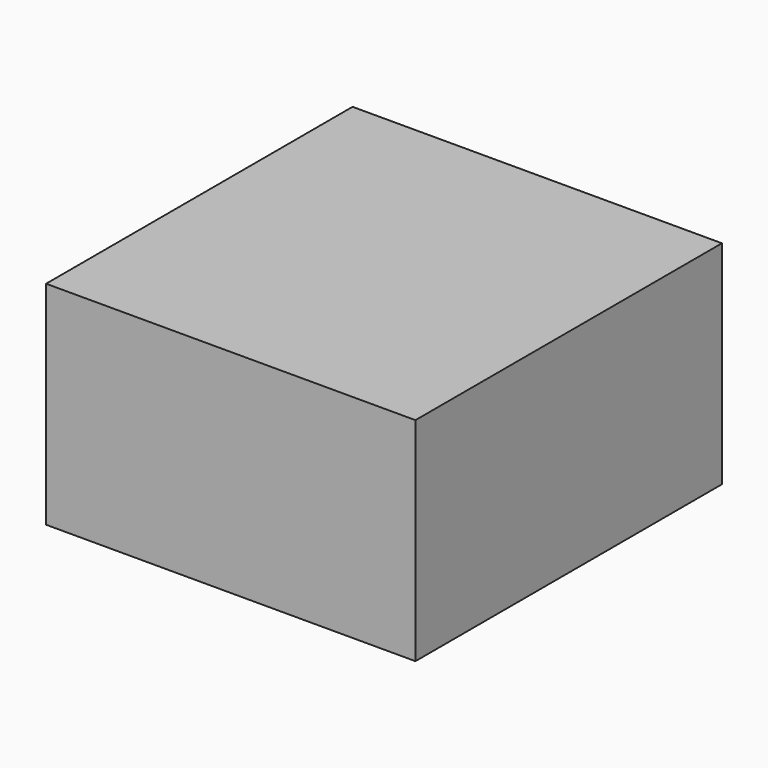
from build123d import *

# Parameters (mm, degrees)
F1_W     = 165.3544977307
F1_H     = 171.5079024434
F1_R     = 60.0545134234
F2_DEPTH = 95
F0_W     = 165.3544977307
F0_H     = 171.5079024434


with BuildPart() as f2:
    # F1 (on face) → F2 (new body)
    with BuildSketch(Plane.XY):
        with Locations((1.299675554, -0.478040427)):
            Rectangle(F1_W, F1_H)
        Circle(F1_R, mode=Mode.SUBTRACT)
        Circle(F1_R)
    extrude(amount=F2_DEPTH)


with BuildPart() as f2b:
    # F0 (on Top) → F2, piece 2 (new body)
    with BuildSketch(Plane.XY):
        with Locations((1.299675554, -0.478040427)):
            Rectangle(F0_W, F0_H)
    extrude(amount=F2_DEPTH)


solid = Compound([f2.part, f2b.part])
